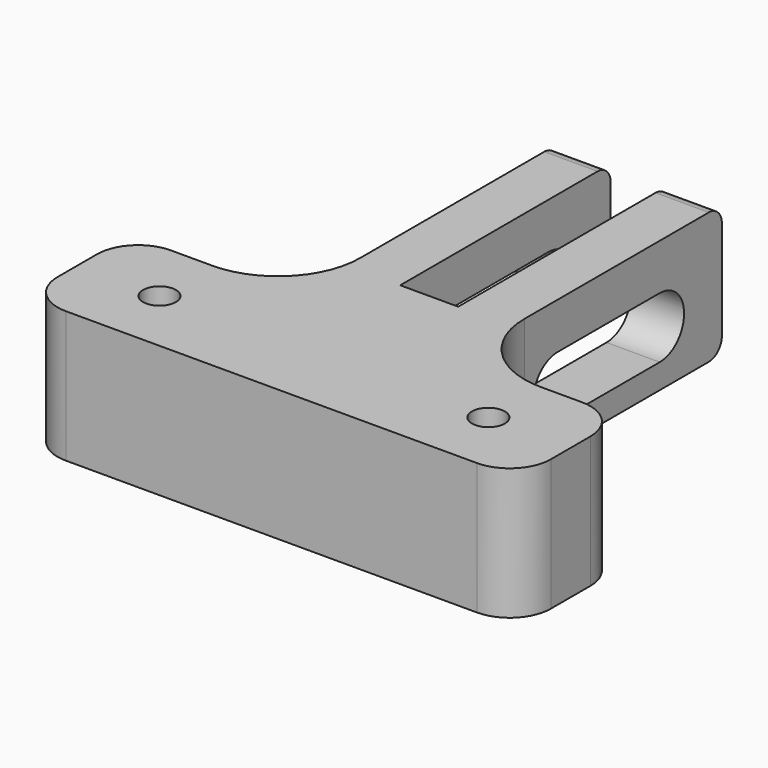
from build123d import *

# Parameters (mm, degrees)
SKETCH_W        = 60
SKETCH_H        = 16
SKETCH_R        = 2
PAD_DEPTH       = 16
SKETCH002_W     = 20
SKETCH002_H     = 16
PAD001_DEPTH    = 40
SKETCH003_W     = 7.05
SKETCH003_H     = 32
POCKET_DEPTH    = 16.001
POCKET001_DEPTH = 40.001
FILLET_R        = 10
FILLET001_R     = 2
FILLET002_R     = 5


with BuildPart() as part:
    # Sketch → Pad (new body)
    with BuildSketch(Plane.XY):
        with Locations((30, 8)):
            Rectangle(SKETCH_W, SKETCH_H)
        with Locations((10, 8)):
            Circle(SKETCH_R, mode=Mode.SUBTRACT)
        with Locations((50, 8)):
            Circle(SKETCH_R, mode=Mode.SUBTRACT)
    extrude(amount=PAD_DEPTH)

    # Sketch002 (on Face3 of Pad) → Pad001 (join)
    with BuildSketch(Plane(origin=(0, 16, 0), x_dir=(-1, 0, 0), z_dir=(0, 1, 0))):
        with Locations((-30, 8)):
            Rectangle(SKETCH002_W, SKETCH002_H)
    extrude(amount=PAD001_DEPTH)

    # Sketch003 (on Face12 of Pad001) → Pocket (cut, through all)
    with BuildSketch(Plane.XY.offset(16)):
        with Locations((30, 40)):
            Rectangle(SKETCH003_W, SKETCH003_H)
    extrude(amount=-POCKET_DEPTH, mode=Mode.SUBTRACT)

    # Sketch004 (on Face8 of Pocket) → Pocket001 (cut, through all)
    with BuildSketch(Plane.YZ.offset(40)):
        with BuildLine():
            ThreePointArc((31.02, 10.4), (27.32, 6.7), (31.02, 3))
            Line((31.02, 3), (46.55, 3))
            ThreePointArc((46.55, 3), (50.25, 6.7), (46.55, 10.4))
            Line((31.02, 10.4), (46.55, 10.4))
        make_face()
    extrude(amount=-POCKET001_DEPTH, mode=Mode.SUBTRACT)

    # Fillet
    fillet_edges = [part.edges().sort_by_distance(p)[0] for p in [
        (20, 16, 8),
        (40, 16, 8),
    ]]
    fillet(fillet_edges, radius=FILLET_R)

    # Fillet001
    fillet001_edges = [part.edges().sort_by_distance(p)[0] for p in [
        (36.7625, 56, 16),
        (23.2375, 56, 16),
        (23.2375, 56, 0),
        (36.7625, 56, 0),
    ]]
    fillet(fillet001_edges, radius=FILLET001_R)

    # Fillet002
    fillet002_edges = [part.edges().sort_by_distance(p)[0] for p in [
        (0, 16, 8),
        (0, 0, 8),
        (60, 0, 8),
        (60, 16, 8),
    ]]
    fillet(fillet002_edges, radius=FILLET002_R)


solid = part.part
